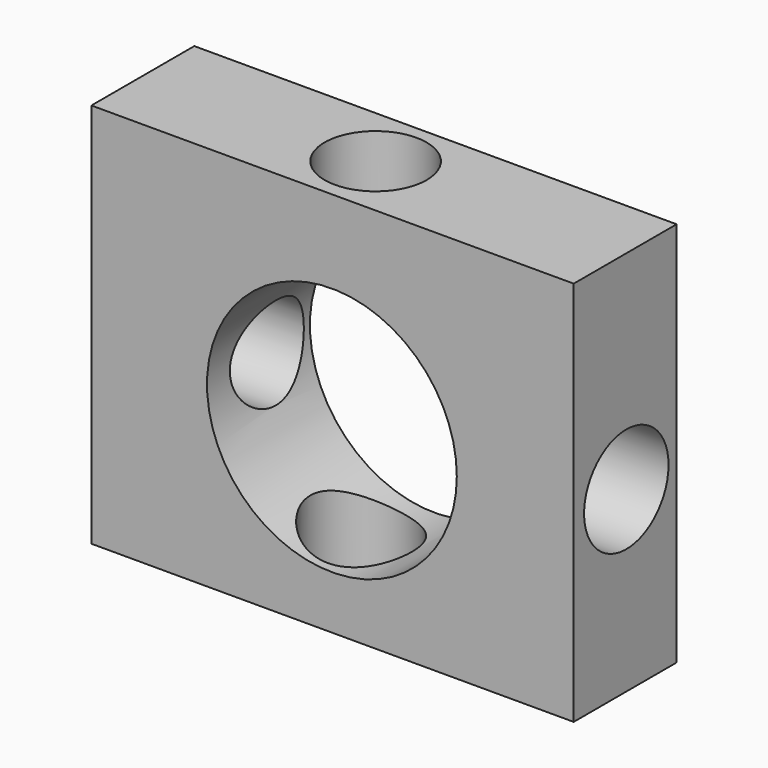
from build123d import *

# Parameters (mm, degrees)
F0_W      = 95.25
F0_H      = 76.2
F0_R      = 24.665224
F1_DEPTH  = 25.4
F3_R      = 10.074085
F4_DEPTH  = 25.4
F5_R      = 10.419172
F6_DEPTH  = 25.4
F7_R      = 9.130152
F8_DEPTH  = 25.4
F10_R     = 10.023697
F11_DEPTH = 25.4


with BuildPart() as f1:
    # F0 (on Front) → F1 (new body)
    with BuildSketch(Plane.XZ):
        with Locations((-47.625, 2.935028)):
            Rectangle(F0_W, F0_H)
        with Locations((-47.752, 0)):
            Circle(F0_R, mode=Mode.SUBTRACT)
    extrude(amount=F1_DEPTH)

    # F3 (on face) → F4 (cut)
    with BuildSketch(Plane.XY.offset(41.035028)):
        with Locations((-49.393464, -12.561298)):
            Circle(F3_R)
    extrude(amount=-F4_DEPTH, mode=Mode.SUBTRACT)

    # F5 (on face) → F6 (cut)
    with BuildSketch(Plane.YZ):
        with Locations((-12.411524, 0)):
            Circle(F5_R)
    extrude(amount=-F6_DEPTH, mode=Mode.SUBTRACT)

    # F7 (on face) → F8 (cut)
    with BuildSketch(Plane(origin=(-95.25, 0, 0), x_dir=(0, -1, 0), z_dir=(-1, 0, 0))):
        with Locations((10.638449, 0)):
            Circle(F7_R)
    extrude(amount=-F8_DEPTH, mode=Mode.SUBTRACT)

    # F10 (on face) → F11 (cut)
    with BuildSketch(Plane(origin=(0, 0, -35.164972), x_dir=(1, 0, 0), z_dir=(0, 0, -1))):
        with Locations((-51.3951, 13.630712)):
            Circle(F10_R)
    extrude(amount=-F11_DEPTH, mode=Mode.SUBTRACT)


solid = f1.part
